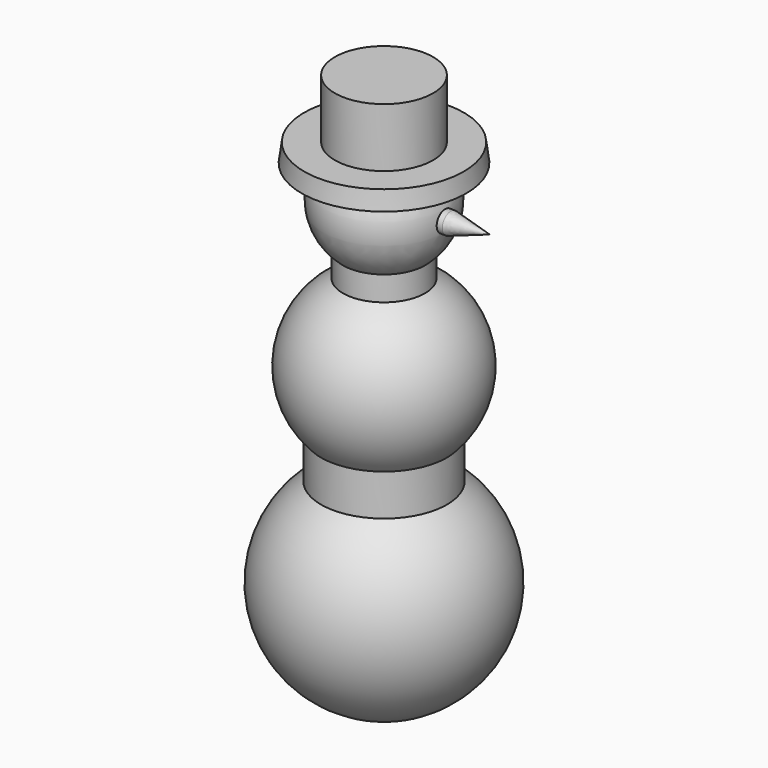
from build123d import *

# Parameters (mm, degrees)
F2_R      = 3.2680933579
F3_DEPTH  = 20.828
F3_FACE_R = 3.2680933579


with BuildPart() as f1:
    # F0 (on Right) → F1 (revolve)
    with BuildSketch(Plane.YZ):
        with BuildLine():
            Line((0, 0), (0, -66.3313093194))
            ThreePointArc((0, -66.3313093194), (32.4190168482, -42.6231565893), (19.6522024279, -4.5432720197))
            ThreePointArc((19.6522024279, -4.5432720197), (13.672669991, -1.1612488905), (7.135593305, 0.9505079637))
            ThreePointArc((7.135593305, 0.9505079637), (3.5993109481, 0.2386718541), (0, 0))
        make_face()
        with BuildLine():
            ThreePointArc((7.135593305, 0.9505079637), (13.672669991, -1.1612488905), (19.6522024279, -4.5432720197))
            Line((19.6522024279, -4.5432720197), (19.6522024279, 8.3685996369))
            ThreePointArc((19.6522024279, 8.3685996369), (13.8979682355, 3.8090315827), (7.135593305, 0.9505079637))
        make_face()
        with BuildLine():
            Line((0, 1.7072754511), (0, 0))
            ThreePointArc((0, 0), (3.5993109481, 0.2386718541), (7.135593305, 0.9505079637))
            ThreePointArc((7.135593305, 0.9505079637), (3.5878053474, 1.5175545556), (0, 1.7072754511))
        make_face()
        with BuildLine():
            ThreePointArc((0, 1.7072754511), (3.5878053474, 1.5175545556), (7.135593305, 0.9505079637))
            ThreePointArc((7.135593305, 0.9505079637), (13.8979682355, 3.8090315827), (19.6522024279, 8.3685996369))
            ThreePointArc((19.6522024279, 8.3685996369), (26.9202109719, 31.5447209124), (12.8148722591, 51.3183388254))
            Line((12.8148722591, 51.3183388254), (3.3113170436, 54.3165139926))
            ThreePointArc((3.3113170436, 54.3165139926), (2.0690479848, 54.4397463411), (0.8224395354, 54.5059732227))
            ThreePointArc((0.8224395354, 54.5059732227), (0.4111513491, 54.5076437675), (0, 54.5183829963))
            Line((0, 54.5183829963), (0, 1.7072754511))
        make_face()
        with BuildLine():
            Line((3.3113170436, 54.3165139926), (12.8148722591, 51.3183388254))
            ThreePointArc((12.8148722591, 51.3183388254), (8.2012656913, 53.2553981867), (3.3113170436, 54.3165139926))
        make_face()
        with BuildLine():
            ThreePointArc((3.3113170436, 54.3165139926), (8.2012656913, 53.2553981867), (12.8148722591, 51.3183388254))
            Line((12.8148722591, 51.3183388254), (12.8148722591, 58.9822315381))
            ThreePointArc((12.8148722591, 58.9822315381), (7.9715532582, 55.9845570424), (2.4493560396, 54.5884448668))
            Line((2.4493560396, 54.5884448668), (3.3113170436, 54.3165139926))
        make_face()
        with BuildLine():
            Line((0, 55.3611660524), (0, 54.5183829963))
            ThreePointArc((0, 54.5183829963), (0.4112665777, 54.5152803763), (0.8224395354, 54.5059732227))
            ThreePointArc((0.8224395354, 54.5059732227), (1.6367986085, 54.5294385669), (2.4493560396, 54.5884448668))
            Line((2.4493560396, 54.5884448668), (0, 55.3611660524))
        make_face()
        with BuildLine():
            ThreePointArc((0.8224395354, 54.5059732227), (0.4112665777, 54.5152803763), (0, 54.5183829963))
            ThreePointArc((0, 54.5183829963), (0.4111513491, 54.5076437675), (0.8224395354, 54.5059732227))
        make_face()
        with BuildLine():
            ThreePointArc((2.4493560396, 54.5884448668), (7.9715532582, 55.9845570424), (12.8148722591, 58.9822315381))
            ThreePointArc((12.8148722591, 58.9822315381), (19.1200667497, 70.2770332619), (16.5613841561, 82.9569846392))
            Line((16.5613841561, 82.9569846392), (25.6922766566, 82.9569846392))
            Line((25.6922766566, 82.9569846392), (24.9253418297, 88.7089893222))
            Line((24.9253418297, 88.7089893222), (15.338672325, 88.7089893222))
            Line((15.338672325, 88.7089893222), (15.338672325, 107.1149110794))
            Line((15.338672325, 107.1149110794), (0, 107.1149110794))
            Line((0, 107.1149110794), (0, 91.7949857506))
            Line((0, 91.7949857506), (0, 82.9569846392))
            Line((0, 82.9569846392), (0, 55.3611660524))
            Line((0, 55.3611660524), (2.4493560396, 54.5884448668))
        make_face()
    revolve(axis=Axis((0, 0, 12.7318382156), (0, 0, -1)))

    # F2 (on Right) → F3 (join)
    with BuildSketch(Plane.YZ):
        with Locations((0, 73.2016563416)):
            Circle(F2_R)
    extrude(amount=F3_DEPTH)


with BuildPart() as f6:
    # F3_face (on face) → F6 section 0
    with BuildSketch(Plane(origin=(20.828, 0, 73.2016563416), x_dir=(0, 1, 0), z_dir=(1, 0, 0)), mode=Mode.PRIVATE) as f6_s0:
        Circle(F3_FACE_R)
    loft([f6_s0.sketch, Vertex(33.02, 0, 74.0385204554)])


solid = Compound([f1.part, f6.part])
